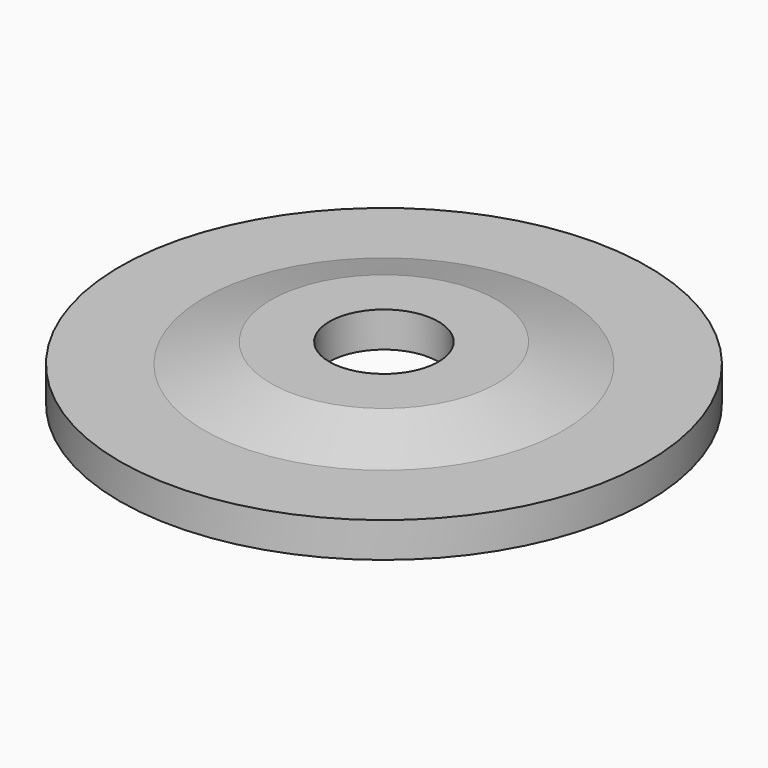
from build123d import *

# Parameters (mm, degrees)
F3_D = 67.5


with BuildPart() as f1:
    # F0 (on Right) → F1 (revolve)
    with BuildSketch(Plane.YZ):
        Polygon((70, 33.908052), (0, 33.908052), (0, 12.03189), (71.250065, 12.03189), (112.502261, 0), (163.442467, 0), (163.442467, 21.719904), (111.25219, 21.719904), align=None)
    revolve(axis=Axis((0, 0, 22.969971), (0, 0, 1)))

    # F3 (through all)
    with Locations(Plane.XY.offset(33.908052)):
        with Locations((0, 0)):
            Hole(F3_D / 2)


solid = f1.part
